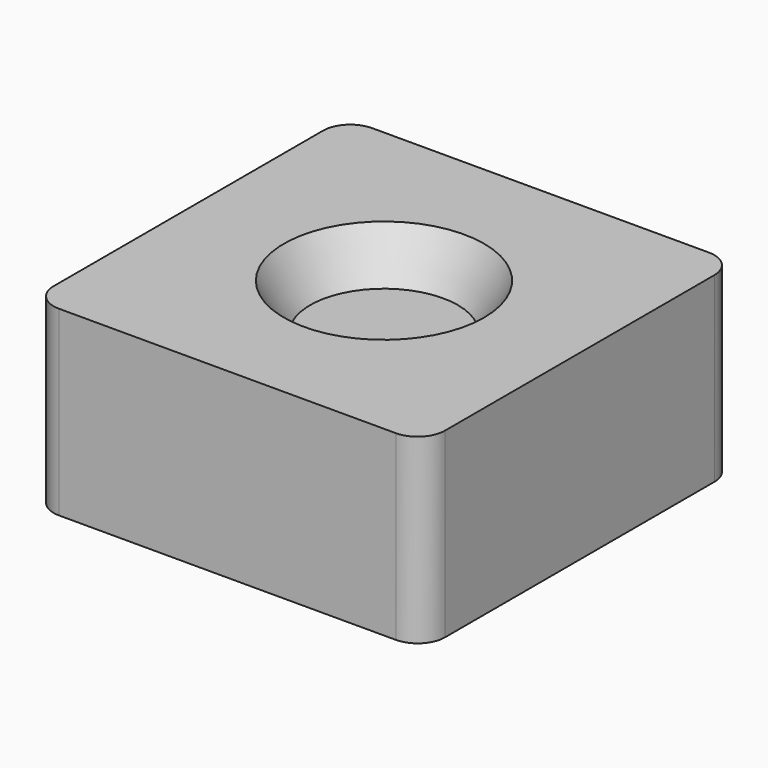
from build123d import *

# Parameters (mm, degrees)
SKETCH_W     = 43
SKETCH_H     = 43
PAD_DEPTH    = 20
SKETCH001_R  = 11
POCKET_DEPTH = 5
POCKET_TAPER = 30
FILLET_R     = 3


with BuildPart() as part:
    # Sketch → Pad (new body)
    with BuildSketch(Plane.XY):
        Rectangle(SKETCH_W, SKETCH_H)
    extrude(amount=PAD_DEPTH)

    # Sketch001 (on Face6 of Pad) → Pocket (cut)
    with BuildSketch(Plane.XY.offset(20)):
        Circle(SKETCH001_R)
    extrude(amount=-POCKET_DEPTH, taper=POCKET_TAPER, mode=Mode.SUBTRACT)

    # Fillet
    fillet_edges = [part.edges().sort_by_distance(p)[0] for p in [
        (21.5, -21.5, 10),
        (21.5, 21.5, 10),
        (-21.5, -21.5, 10),
        (-21.5, 21.5, 10),
    ]]
    fillet(fillet_edges, radius=FILLET_R)


solid = part.part
